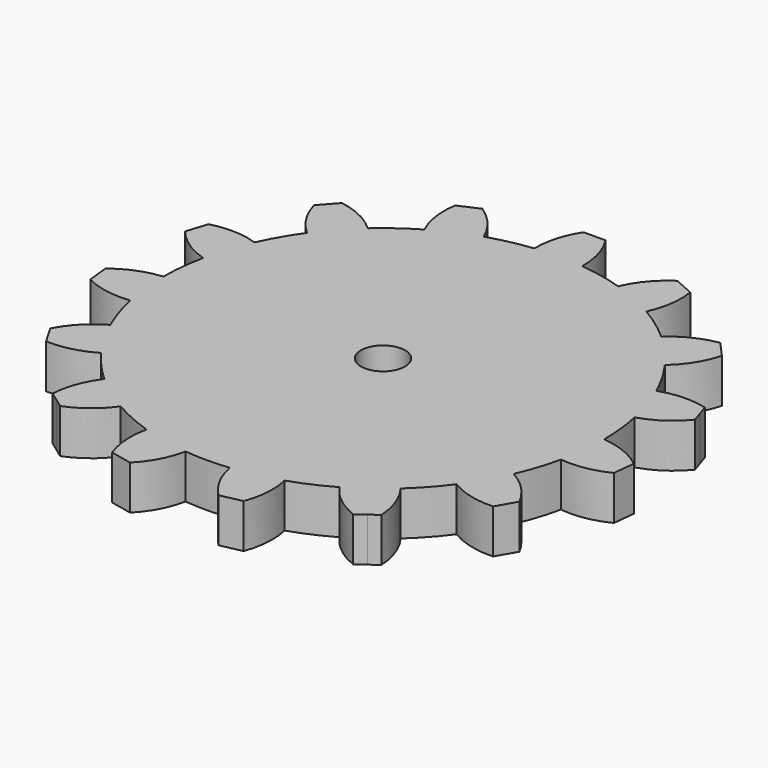
from build123d import *

# Parameters (mm, degrees)
F1_DEPTH = 2
F2_R     = 1
F3_DEPTH = 2.001


with BuildPart() as f1:
    # F0 (on Top) → F1 (new body)
    with BuildSketch(Plane.XY):
        with BuildLine():
            ThreePointArc((9.772306, -2.121802), (9.942913, -1.066992), (10, 0))
            ThreePointArc((10, 0), (9.999976, 0.02183), (9.999905, 0.043659))
            ThreePointArc((9.999905, 0.043659), (9.945219, 1.045285), (9.79046, 2.036392))
            ThreePointArc((9.79046, 2.036392), (9.510565, 3.09017), (9.11761, 4.107212))
            ThreePointArc((9.11761, 4.107212), (8.660254, 5), (8.115755, 5.842476))
            ThreePointArc((8.115755, 5.842476), (7.431448, 6.691306), (6.658797, 7.460591))
            ThreePointArc((6.658797, 7.460591), (5.877853, 8.09017), (5.037762, 8.638342))
            ThreePointArc((5.037762, 8.638342), (4.067366, 9.135455), (3.048618, 9.523966))
            ThreePointArc((3.048618, 9.523966), (2.079117, 9.781476), (1.088694, 9.940561))
            ThreePointArc((1.088694, 9.940561), (0, 10), (-1.088694, 9.940561))
            ThreePointArc((-1.088694, 9.940561), (-2.079117, 9.781476), (-3.048618, 9.523966))
            ThreePointArc((-3.048618, 9.523966), (-4.067366, 9.135455), (-5.037762, 8.638342))
            ThreePointArc((-5.037762, 8.638342), (-5.877853, 8.09017), (-6.658797, 7.460591))
            ThreePointArc((-6.658797, 7.460591), (-7.431448, 6.691306), (-8.115755, 5.842476))
            ThreePointArc((-8.115755, 5.842476), (-8.660254, 5), (-9.11761, 4.107212))
            ThreePointArc((-9.11761, 4.107212), (-9.510565, 3.09017), (-9.79046, 2.036392))
            ThreePointArc((-9.79046, 2.036392), (-9.945219, 1.045285), (-9.999905, 0.043659))
            ThreePointArc((-9.999905, 0.043659), (-9.945219, -1.045285), (-9.772306, -2.121802))
            ThreePointArc((-9.772306, -2.121802), (-9.510565, -3.09017), (-9.153125, -4.027443))
            ThreePointArc((-9.153125, -4.027443), (-8.660254, -5), (-8.064431, -5.913117))
            ThreePointArc((-8.064431, -5.913117), (-7.431448, -6.691306), (-6.723687, -7.402164))
            ThreePointArc((-6.723687, -7.402164), (-5.877853, -8.09017), (-4.962143, -8.682001))
            ThreePointArc((-4.962143, -8.682001), (-4.067366, -9.135455), (-3.131663, -9.496983))
            ThreePointArc((-3.131663, -9.496983), (-2.079117, -9.781476), (-1.001855, -9.949688))
            ThreePointArc((-1.001855, -9.949688), (0, -10), (1.001855, -9.949688))
            ThreePointArc((1.001855, -9.949688), (2.079117, -9.781476), (3.131663, -9.496983))
            ThreePointArc((3.131663, -9.496983), (4.067366, -9.135455), (4.962143, -8.682001))
            ThreePointArc((4.962143, -8.682001), (5.877853, -8.09017), (6.723687, -7.402164))
            ThreePointArc((6.723687, -7.402164), (7.431448, -6.691306), (8.064431, -5.913117))
            ThreePointArc((8.064431, -5.913117), (8.660254, -5), (9.153125, -4.027443))
            ThreePointArc((9.153125, -4.027443), (9.510565, -3.09017), (9.772306, -2.121802))
        make_face()
        with BuildLine():
            ThreePointArc((9.999905, 0.043659), (9.999976, 0.02183), (10, 0))
            ThreePointArc((10, 0), (9.942913, -1.066992), (9.772306, -2.121802))
            ThreePointArc((9.772306, -2.121802), (10.85461, -2.093182), (11.881999, -1.751603))
            Line((11.881999, -1.751603), (11.934263, -1.254342))
            Line((11.934263, -1.254342), (11.986527, -0.757081))
            ThreePointArc((11.986527, -0.757081), (11.052608, -0.209359), (9.999905, 0.043659))
        make_face()
        with BuildLine():
            ThreePointArc((9.11761, 4.107212), (9.510565, 3.09017), (9.79046, 2.036392))
            ThreePointArc((9.79046, 2.036392), (10.767554, 2.502751), (11.567187, 3.232676))
            Line((11.567187, 3.232676), (11.412678, 3.708204))
            Line((11.412678, 3.708204), (11.25817, 4.183732))
            ThreePointArc((11.25817, 4.183732), (10.182214, 4.304241), (9.11761, 4.107212))
        make_face()
        with BuildLine():
            ThreePointArc((10.642305, -5.566987), (10.011906, -4.68676), (9.153125, -4.027443))
            ThreePointArc((9.153125, -4.027443), (8.660254, -5), (8.064431, -5.913117))
            ThreePointArc((8.064431, -5.913117), (9.064806, -6.327185), (10.142305, -6.433013))
            Line((10.142305, -6.433013), (10.392305, -6))
            Line((10.392305, -6), (10.642305, -5.566987))
        make_face()
        with BuildLine():
            ThreePointArc((6.658797, 7.460591), (7.431448, 6.691306), (8.115755, 5.842476))
            ThreePointArc((8.115755, 5.842476), (8.818689, 6.665935), (9.252303, 7.657995))
            Line((9.252303, 7.657995), (8.917738, 8.029567))
            Line((8.917738, 8.029567), (8.583173, 8.40114))
            ThreePointArc((8.583173, 8.40114), (7.551223, 8.0736), (6.658797, 7.460591))
        make_face()
        with BuildLine():
            ThreePointArc((7.457932, -9.414311), (7.240054, -8.353777), (6.723687, -7.402164))
            ThreePointArc((6.723687, -7.402164), (5.877853, -8.09017), (4.962143, -8.682001))
            ThreePointArc((4.962143, -8.682001), (5.707615, -9.46716), (6.648915, -10.002097))
            Line((6.648915, -10.002097), (7.053423, -9.708204))
            Line((7.053423, -9.708204), (7.457932, -9.414311))
        make_face()
        with BuildLine():
            ThreePointArc((3.048618, 9.523966), (4.067366, 9.135455), (5.037762, 8.638342))
            ThreePointArc((5.037762, 8.638342), (5.344994, 9.676519), (5.337612, 10.759177))
            Line((5.337612, 10.759177), (4.88084, 10.962545))
            Line((4.88084, 10.962545), (4.424067, 11.165914))
            ThreePointArc((4.424067, 11.165914), (3.614556, 10.446959), (3.048618, 9.523966))
        make_face()
        with BuildLine():
            ThreePointArc((2.984014, -11.633815), (3.216331, -10.576351), (3.131663, -9.496983))
            ThreePointArc((3.131663, -9.496983), (2.079117, -9.781476), (1.001855, -9.949688))
            ThreePointArc((1.001855, -9.949688), (1.363525, -10.970177), (2.005866, -11.841727))
            Line((2.005866, -11.841727), (2.49494, -11.737771))
            Line((2.49494, -11.737771), (2.984014, -11.633815))
        make_face()
        with BuildLine():
            ThreePointArc((-1.088694, 9.940561), (0, 10), (1.088694, 9.940561))
            ThreePointArc((1.088694, 9.940561), (0.9471, 11.013945), (0.5, 12))
            Line((0.5, 12), (0, 12))
            Line((0, 12), (-0.5, 12))
            ThreePointArc((-0.5, 12), (-0.9471, 11.013945), (-1.088694, 9.940561))
        make_face()
        with BuildLine():
            ThreePointArc((-2.005866, -11.841727), (-1.363525, -10.970177), (-1.001855, -9.949688))
            ThreePointArc((-1.001855, -9.949688), (-2.079117, -9.781476), (-3.131663, -9.496983))
            ThreePointArc((-3.131663, -9.496983), (-3.216331, -10.576351), (-2.984014, -11.633815))
            Line((-2.984014, -11.633815), (-2.49494, -11.737771))
            Line((-2.49494, -11.737771), (-2.005866, -11.841727))
        make_face()
        with BuildLine():
            ThreePointArc((-5.037762, 8.638342), (-4.067366, 9.135455), (-3.048618, 9.523966))
            ThreePointArc((-3.048618, 9.523966), (-3.614556, 10.446959), (-4.424067, 11.165914))
            Line((-4.424067, 11.165914), (-4.88084, 10.962545))
            Line((-4.88084, 10.962545), (-5.337612, 10.759177))
            ThreePointArc((-5.337612, 10.759177), (-5.344994, 9.676519), (-5.037762, 8.638342))
        make_face()
        with BuildLine():
            ThreePointArc((-6.648915, -10.002097), (-5.707615, -9.46716), (-4.962143, -8.682001))
            ThreePointArc((-4.962143, -8.682001), (-5.877853, -8.09017), (-6.723687, -7.402164))
            ThreePointArc((-6.723687, -7.402164), (-7.240054, -8.353777), (-7.457932, -9.414311))
            Line((-7.457932, -9.414311), (-7.053423, -9.708204))
            Line((-7.053423, -9.708204), (-6.648915, -10.002097))
        make_face()
        with BuildLine():
            ThreePointArc((-8.115755, 5.842476), (-7.431448, 6.691306), (-6.658797, 7.460591))
            ThreePointArc((-6.658797, 7.460591), (-7.551223, 8.0736), (-8.583173, 8.40114))
            Line((-8.583173, 8.40114), (-8.917738, 8.029567))
            Line((-8.917738, 8.029567), (-9.252303, 7.657995))
            ThreePointArc((-9.252303, 7.657995), (-8.818689, 6.665935), (-8.115755, 5.842476))
        make_face()
        with BuildLine():
            ThreePointArc((-10.142305, -6.433013), (-9.064806, -6.327185), (-8.064431, -5.913117))
            ThreePointArc((-8.064431, -5.913117), (-8.660254, -5), (-9.153125, -4.027443))
            ThreePointArc((-9.153125, -4.027443), (-10.011906, -4.68676), (-10.642305, -5.566987))
            Line((-10.642305, -5.566987), (-10.392305, -6))
            Line((-10.392305, -6), (-10.142305, -6.433013))
        make_face()
        with BuildLine():
            ThreePointArc((-9.79046, 2.036392), (-9.510565, 3.09017), (-9.11761, 4.107212))
            ThreePointArc((-9.11761, 4.107212), (-10.182214, 4.304241), (-11.25817, 4.183732))
            Line((-11.25817, 4.183732), (-11.412678, 3.708204))
            Line((-11.412678, 3.708204), (-11.567187, 3.232676))
            ThreePointArc((-11.567187, 3.232676), (-10.767554, 2.502751), (-9.79046, 2.036392))
        make_face()
        with BuildLine():
            ThreePointArc((-11.881999, -1.751603), (-10.85461, -2.093182), (-9.772306, -2.121802))
            ThreePointArc((-9.772306, -2.121802), (-9.945219, -1.045285), (-9.999905, 0.043659))
            ThreePointArc((-9.999905, 0.043659), (-11.052608, -0.209359), (-11.986527, -0.757081))
            Line((-11.986527, -0.757081), (-11.934263, -1.254342))
            Line((-11.934263, -1.254342), (-11.881999, -1.751603))
        make_face()
    extrude(amount=F1_DEPTH)

    # F2 (on face) → F3 (cut, through all)
    with BuildSketch(Plane.XY.offset(2)):
        Circle(F2_R)
    extrude(amount=-F3_DEPTH, mode=Mode.SUBTRACT)


solid = f1.part
